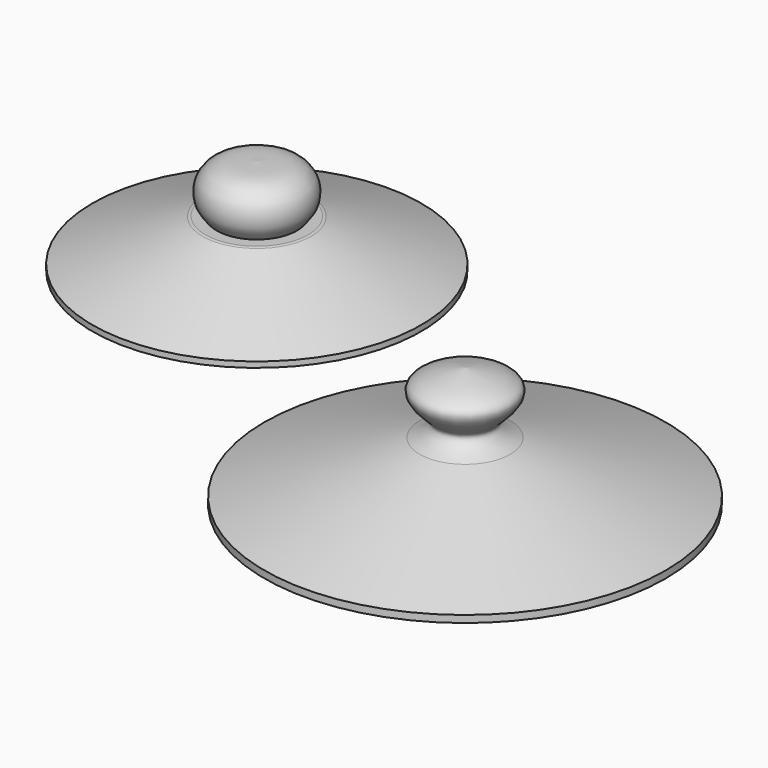
from build123d import *


with BuildPart() as f1:
    # F0 (on Front) → F1 (revolve)
    with BuildSketch(Plane.XZ):
        with BuildLine():
            Line((44.478166363, 26.2107101455), (44.478166363, 56.2107101455))
            add(Edge.make_bspline(
                [(19.5126677775, 26.2107101455), (17.8125519823, 28.1424197578), (13.7821908683, 32.6214414768), (12.4721386359, 45.5292608353), (23.5563612534, 57.4235923177), (38.7443876627, 55.3942253372), (44.478166363, 56.2107101455)],
                knots=[0, 0, 0, 0, 0.1975519799, 0.4327629142, 0.6911236122, 1, 1, 1, 1], degree=3))
            Line((19.5126677775, 26.2107101455), (12.5043373036, 26.2107101455))
            ThreePointArc((12.5043373036, 26.2107101455), (11.6010595128, 26.1284422684), (10.7275060205, 25.8843458386))
            Line((10.7275060205, 25.8843458386), (-58.021833637, -0.2529026377))
            Line((-58.021833637, -0.2529026377), (-58.021833637, -3.7892898545))
            Line((-58.021833637, -3.7892898545), (-54.9449205492, -3.7892898545))
            Line((-54.9449205492, -3.7892898545), (17.8879755242, 22.0968770613))
            ThreePointArc((17.8879755242, 22.0968770613), (19.5377417427, 22.5289041306), (21.2369266466, 22.6743229288))
            Line((21.2369266466, 22.6743229288), (44.478166363, 22.6743229288))
            Line((44.478166363, 22.6743229288), (44.478166363, 26.2107101455))
        make_face()
    revolve(axis=Axis((44.478166363, 0, 41.2107101455), (0, 0, -1)))


with BuildPart() as f2:
    # F0 (on Front) → F2 (revolve)
    with BuildSketch(Plane.XZ):
        with BuildLine():
            Line((174.1555813548, -52.283195349), (174.1555813548, -14.783195349))
            add(Edge.make_bspline(
                [(145.901620388, -53.1451776624), (150.464134757, -51.8415952918), (160.643935905, -44.9041257337), (151.7715800114, -38.4805317433), (136.4497785532, -20.924907826), (167.7727013288, -15.6921115885), (174.1555813548, -14.783195349)],
                knots=[0, 0, 0, 0, 0.2323488255, 0.4151747665, 0.6561567809, 1, 1, 1, 1], degree=3))
            Line((145.901620388, -53.1451776624), (49.1555813548, -85.3695883202))
            Line((49.1555813548, -85.3695883202), (49.1555813548, -89.783195349))
            Line((49.1555813548, -89.783195349), (53.4296680685, -89.783195349))
            Line((53.4296680685, -89.783195349), (153.6279530008, -57.1873384647))
            ThreePointArc((153.6279530008, -57.1873384647), (155.1554066069, -56.82019772), (156.7215101906, -56.6968023777))
            Line((156.7215101906, -56.6968023777), (174.1555813548, -56.6968023777))
            Line((174.1555813548, -56.6968023777), (174.1555813548, -52.283195349))
        make_face()
    revolve(axis=Axis((174.1555813548, 0, -33.533195349), (0, 0, -1)))


solid = Compound([f1.part, f2.part])
